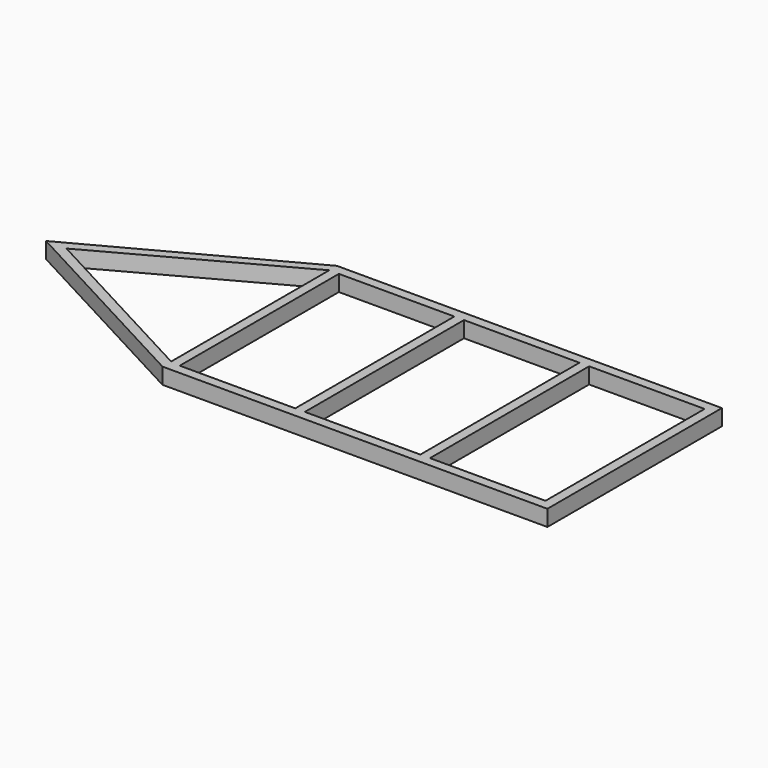
from build123d import *

# Parameters (mm, degrees)
F0_W     = 76.2
F0_H     = 1574.8
F1_DEPTH = 127


with BuildPart() as f1:
    # F0 (on Top) → F1 (new body)
    with BuildSketch(Plane.XY):
        Polygon((-476.311119, 214.830956), (-476.311119, 291.030956), (-2088.360895, -572.569044), (-476.311119, -1436.169044), (-476.311119, -1349.723475), (-1926.996189, -572.569044), align=None)
        Polygon((2571.688881, 291.030956), (-476.311119, 291.030956), (-476.311119, 214.830956), (-476.311119, -1349.723475), (-476.311119, -1436.169044), (2571.688881, -1436.169044), align=None)
        Polygon((-400.111119, -1359.969044), (-400.111119, 214.830956), (514.288881, 214.830956), (590.488881, 214.830956), (1504.888881, 214.830956), (1581.088881, 214.830956), (2495.488881, 214.830956), (2495.488881, -1359.969044), (1581.088881, -1359.969044), (1504.888881, -1359.969044), (590.488881, -1359.969044), (514.288881, -1359.969044), align=None, mode=Mode.SUBTRACT)
        with Locations((552.388881, -572.569044)):
            Rectangle(F0_W, F0_H)
        with Locations((1542.988881, -572.569044)):
            Rectangle(F0_W, F0_H)
    extrude(amount=F1_DEPTH)


solid = f1.part
